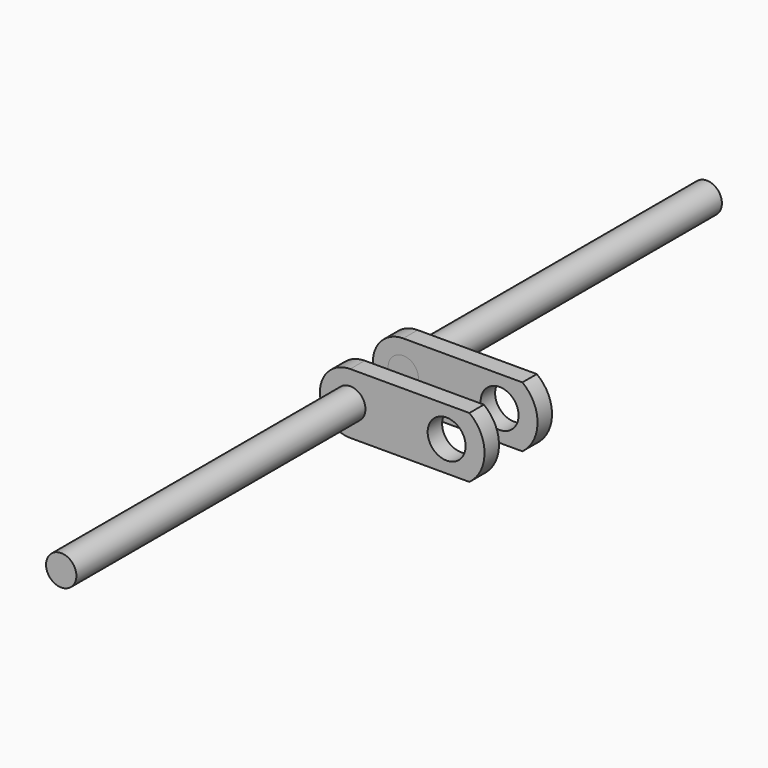
from build123d import *

# Parameters (mm, degrees)
F0_R     = 4
F0_R_2   = 5
F1_DEPTH = 4.7625
F2_R     = 4
F3_DEPTH = 100


with BuildPart() as f1:
    # F0 (on Front) → F1 (new body)
    with BuildSketch(Plane.XZ):
        with BuildLine():
            Line((6, 8), (-25.4, 8))
            ThreePointArc((-25.4, 8), (-33.4, 0), (-25.4, -8))
            Line((-25.4, -8), (6, -8))
            ThreePointArc((6, -8), (10, 0), (6, 8))
        make_face()
        with Locations((-25.4, 0)):
            Circle(F0_R, mode=Mode.SUBTRACT)
        Circle(F0_R_2, mode=Mode.SUBTRACT)
    extrude(amount=F1_DEPTH)


with BuildPart() as f3:
    # F2 (on Front) → F3 (new body)
    with BuildSketch(Plane.XZ):
        with Locations((-25.4, 0)):
            Circle(F2_R)
    extrude(amount=F3_DEPTH)


with BuildPart() as f5_1:
    # F5: instance of F1
    add(f1.part.mirror(Plane.XZ.offset(-6.35)))


with BuildPart() as f5_2:
    # F5: instance of F3
    add(f3.part.mirror(Plane.XZ.offset(-6.35)))


solid = Compound([f1.part, f3.part, f5_1.part, f5_2.part])
